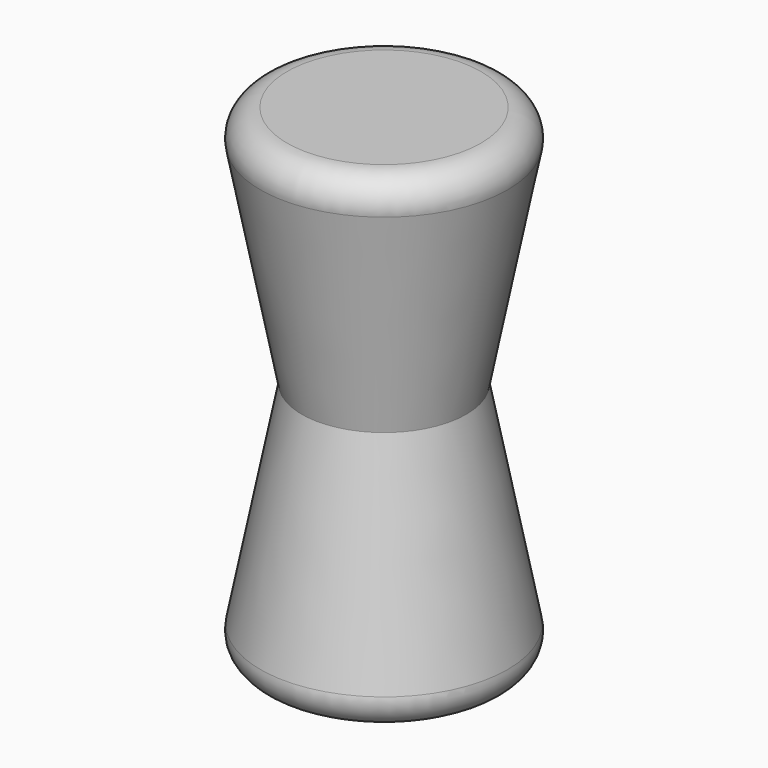
from build123d import *

# Parameters (mm, degrees)
F1_R      = 38.4630841236
F2_DEPTH  = 113.792
F2_FACE_R = 38.4630841236
F0_R      = 60.7420219502
F6_R      = 12.7


with BuildPart() as f2:
    # F1 (on face) → F2 (new body)
    with BuildSketch(Plane.XY):
        Circle(F1_R)
    extrude(amount=F2_DEPTH)

    # F2_face (on face) → F3 section 0
    with BuildSketch(Plane.XY.offset(113.792)):
        Circle(F2_FACE_R)
    # F0 (on Top) → F3 section 1
    with BuildSketch(Plane.XY):
        Circle(F0_R)
    loft()

    # F5: F2 across face


with BuildPart() as f2_1:
    add(f2.part)
    add(f2.part.mirror(Plane.XY.offset(113.792)))

    # F6
    f6_edges = [f2_1.edges().sort_by_distance(p)[0] for p in [
        (-60.742022, 0, 227.584),
        (-60.742022, 0, 0),
    ]]
    fillet(f6_edges, radius=F6_R)


solid = f2_1.part
